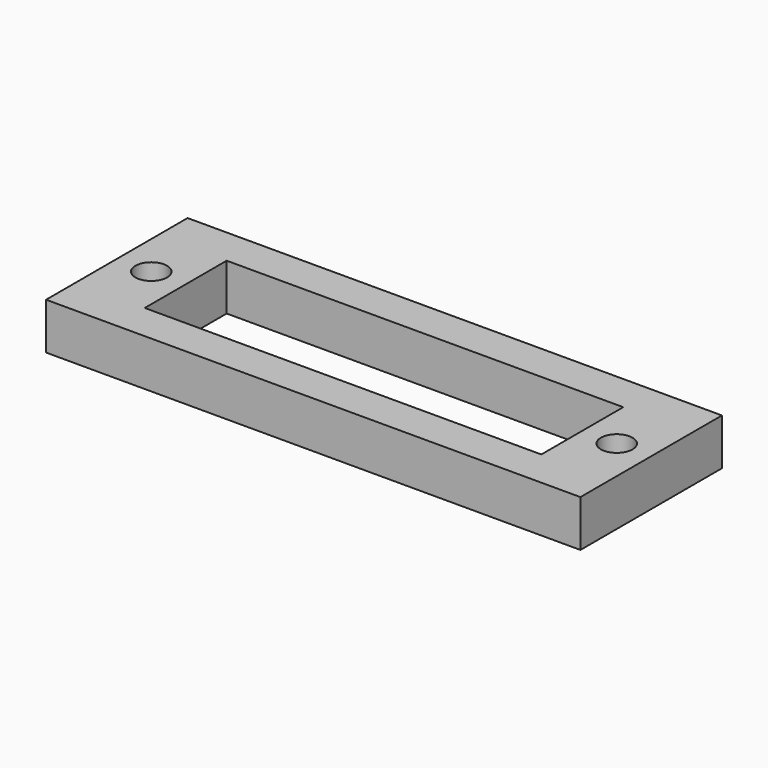
from build123d import *

# Parameters (mm, degrees)
SKETCH_W   = 57.4
SKETCH_H   = 19
SKETCH_R   = 1.7
SKETCH_W_2 = 42.6
SKETCH_H_2 = 11
PAD_DEPTH  = 5


with BuildPart() as part:
    # Sketch → Pad (new body)
    with BuildSketch(Plane.XY):
        Rectangle(SKETCH_W, SKETCH_H)
        with Locations((-25, 0)):
            Circle(SKETCH_R, mode=Mode.SUBTRACT)
        with Locations((25, 0)):
            Circle(SKETCH_R, mode=Mode.SUBTRACT)
        Rectangle(SKETCH_W_2, SKETCH_H_2, mode=Mode.SUBTRACT)
    extrude(amount=PAD_DEPTH)


solid = part.part
